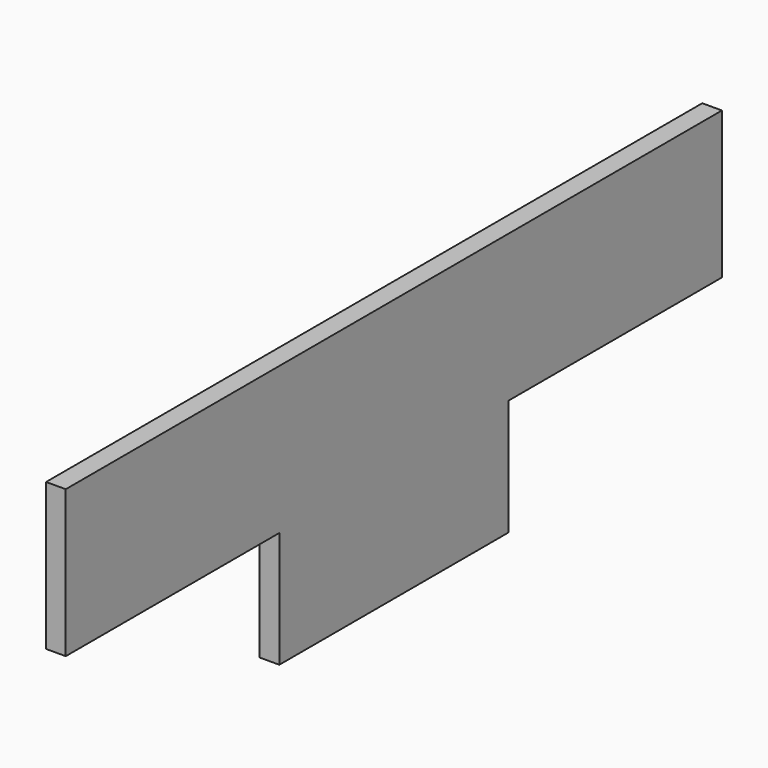
from build123d import *

# Parameters (mm, degrees)
F0_W     = 345
F0_H     = 190
F0_W_2   = 370
F0_H_2   = 120
F1_DEPTH = 25.4


with BuildPart() as f1:
    # F0 (on Right) → F1 (new body)
    with BuildSketch(Plane.YZ):
        Polygon((139.637154, 182.592394), (-230.362846, 182.592394), (-230.362846, -7.407606), (-230.362846, -37.407606), (139.637154, -37.407606), (139.637154, -7.407606), align=None)
        with Locations((-402.862846, 87.592394)):
            Rectangle(F0_W, F0_H)
        with Locations((312.137154, 87.592394)):
            Rectangle(F0_W, F0_H)
        with Locations((-45.362846, -97.407606)):
            Rectangle(F0_W_2, F0_H_2)
    extrude(amount=F1_DEPTH)


solid = f1.part
